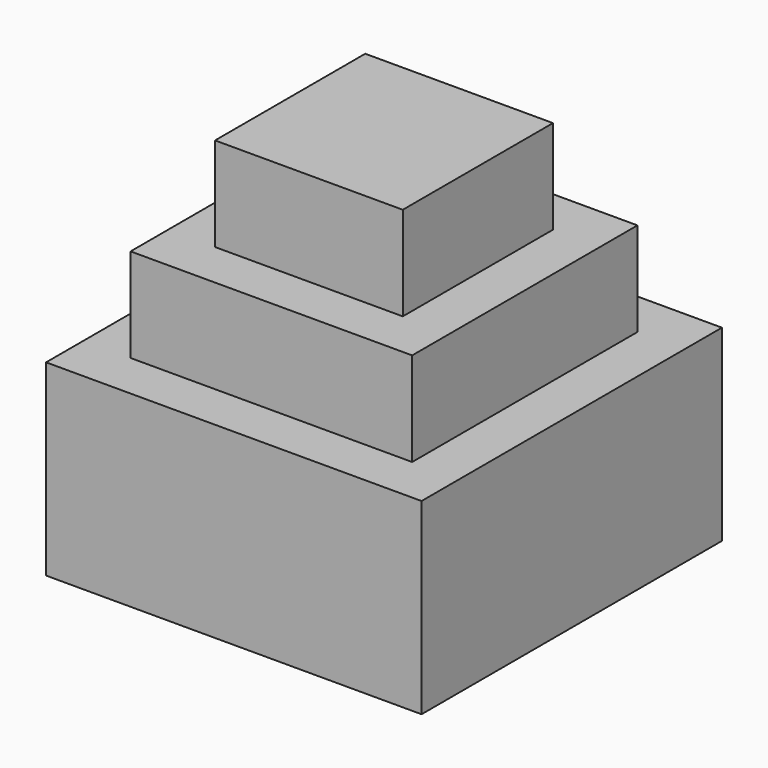
from build123d import *

# Parameters (mm, degrees)
F0_W     = 25.4
F0_H     = 25.4
F1_DEPTH = 12.7
F2_W     = 19.05
F2_H     = 19.05
F3_DEPTH = 6.35
F4_W     = 12.7
F4_H     = 12.7
F5_DEPTH = 6.35


with BuildPart() as f1:
    # F0 (on Top) → F1 (new body)
    with BuildSketch(Plane.XY):
        Rectangle(F0_W, F0_H)
    extrude(amount=F1_DEPTH)

    # F2 (on face) → F3 (join)
    with BuildSketch(Plane.XY.offset(12.7)):
        Rectangle(F2_W, F2_H)
    extrude(amount=F3_DEPTH)

    # F4 (on face) → F5 (join)
    with BuildSketch(Plane.XY.offset(19.05)):
        Rectangle(F4_W, F4_H)
    extrude(amount=F5_DEPTH)


solid = f1.part
